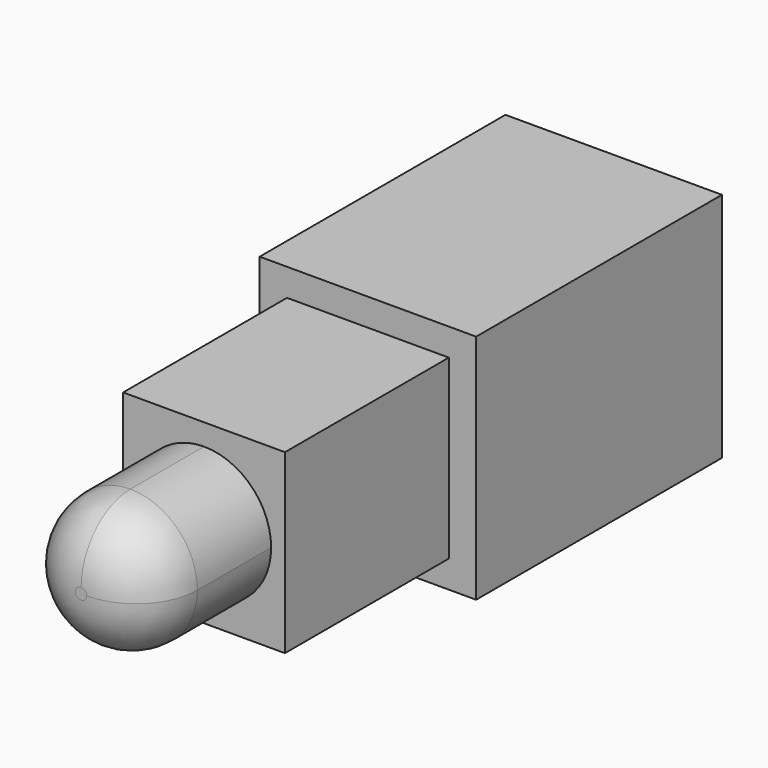
from build123d import *

# Parameters (mm, degrees)
F0_W     = 26.8478
F0_H     = 28.7274
F1_DEPTH = 38.1
F2_W     = 20.0660005145
F2_H     = 21.9456005145
F3_DEPTH = 25.4
F5_DEPTH = 19.05
F6_R     = 7.62
F7_T     = -2.5


with BuildPart() as f1:
    # F0 (on Front) → F1 (new body)
    with BuildSketch(Plane.XZ):
        with Locations((13.4239, 14.3637)):
            Rectangle(F0_W, F0_H)
    extrude(amount=F1_DEPTH)

    # F2 (on face) → F3 (join)
    with BuildSketch(Plane.XZ.offset(38.1)):
        with Locations((13.4239, 14.3637)):
            Rectangle(F2_W, F2_H)
    extrude(amount=F3_DEPTH)

    # F4 (on face) → F5 (join)
    with BuildSketch(Plane.XZ.offset(63.5)):
        with BuildLine():
            ThreePointArc((21.7445834799, 14.3637), (19.3075117128, 20.2473117128), (13.4239, 22.6843834799))
            ThreePointArc((13.4239, 22.6843834799), (7.5402882872, 8.4800882872), (21.7445834799, 14.3637))
        make_face()
    extrude(amount=F5_DEPTH)

    # F6
    f6_edges = [f1.edges().sort_by_distance(p)[0] for p in [
        (5.103217, -82.55, 14.3637),
    ]]
    fillet(f6_edges, radius=F6_R)

    # F7
    f7_openings = [f1.faces().sort_by_distance(p)[0] for p in [
        (13.4239, 0, 14.3637),
    ]]
    offset(amount=F7_T, openings=f7_openings, kind=Kind.INTERSECTION)


solid = f1.part
